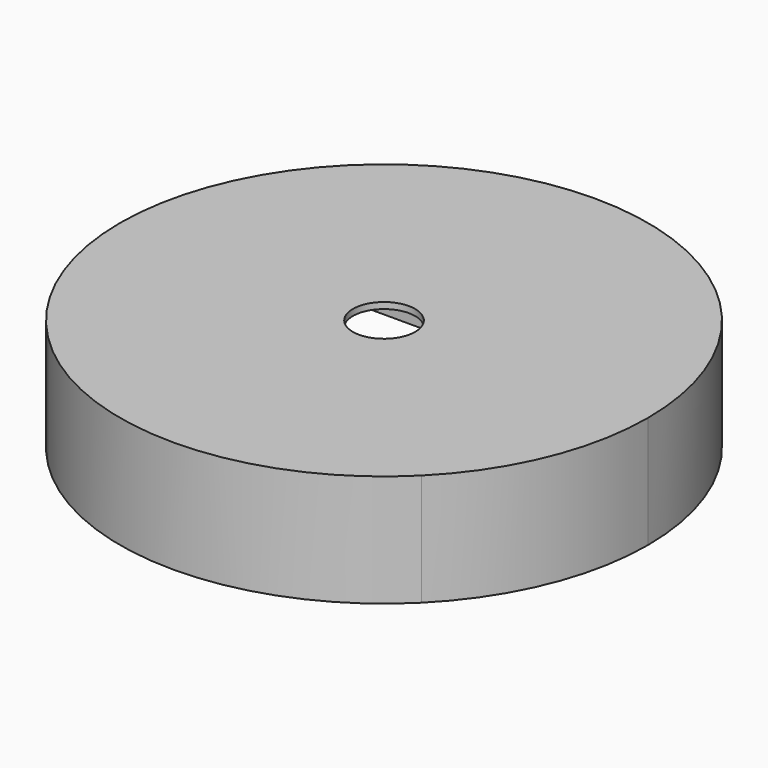
from build123d import *

# Parameters (mm, degrees)
F0_W     = 60
F0_H     = 60
F0_W_2   = 56.5
F0_H_2   = 56.5
F1_DEPTH = 17
F2_DEPTH = 1
F3_DEPTH = 17
F4_R     = 5
F5_DEPTH = 25
F6_R     = 3


with BuildPart() as f1:
    # F0 (on Top) → F1 (new body)
    with BuildSketch(Plane.XY):
        with Locations((-28.25, -28.25)):
            Rectangle(F0_W, F0_H)
        with Locations((-28.25, -28.25)):
            Rectangle(F0_W_2, F0_H_2, mode=Mode.SUBTRACT)
    extrude(amount=-F1_DEPTH)

    # F0 (on Top) → F2 (join)
    with BuildSketch(Plane.XY):
        with Locations((-28.25, -28.25)):
            Rectangle(F0_W, F0_H)
        with Locations((-28.25, -28.25)):
            Rectangle(F0_W_2, F0_H_2, mode=Mode.SUBTRACT)
        with BuildLine():
            ThreePointArc((1.75, 1.75), (-28.25, 14.176407), (-58.25, 1.75))
            Line((-58.25, 1.75), (1.75, 1.75))
        make_face()
        with BuildLine():
            Line((1.75, 1.75), (1.75, -58.25))
            ThreePointArc((1.75, -58.25), (10.946889, -44.485883), (14.176407, -28.25))
            ThreePointArc((14.176407, -28.25), (10.946889, -12.014117), (1.75, 1.75))
        make_face()
        with BuildLine():
            Line((1.75, -58.25), (-58.25, -58.25))
            ThreePointArc((-58.25, -58.25), (-28.25, -70.676407), (1.75, -58.25))
        make_face()
        with BuildLine():
            ThreePointArc((-58.25, 1.75), (-70.676407, -28.25), (-58.25, -58.25))
            Line((-58.25, -58.25), (-58.25, 1.75))
        make_face()
        with Locations((-28.25, -28.25)):
            Rectangle(F0_W_2, F0_H_2)
    extrude(amount=F2_DEPTH)

    # F0 (on Top) → F3 (join)
    with BuildSketch(Plane.XY):
        with BuildLine():
            ThreePointArc((1.75, 1.75), (-28.25, 14.176407), (-58.25, 1.75))
            Line((-58.25, 1.75), (1.75, 1.75))
        make_face()
        with BuildLine():
            ThreePointArc((-58.25, 1.75), (-70.676407, -28.25), (-58.25, -58.25))
            Line((-58.25, -58.25), (-58.25, 1.75))
        make_face()
        with BuildLine():
            Line((1.75, 1.75), (1.75, -58.25))
            ThreePointArc((1.75, -58.25), (10.946889, -44.485883), (14.176407, -28.25))
            ThreePointArc((14.176407, -28.25), (10.946889, -12.014117), (1.75, 1.75))
        make_face()
        with BuildLine():
            Line((1.75, -58.25), (-58.25, -58.25))
            ThreePointArc((-58.25, -58.25), (-28.25, -70.676407), (1.75, -58.25))
        make_face()
    extrude(amount=-F3_DEPTH)

    # F4 (on face) → F5 (cut)
    with BuildSketch(Plane.XY.offset(1)):
        with Locations((-28.25, -28.25)):
            Circle(F4_R)
    extrude(amount=-F5_DEPTH, mode=Mode.SUBTRACT)

    # F6
    f6_edges = [f1.edges().sort_by_distance(p)[0] for p in [
        (0, 0, -8.5),
        (-56.5, 0, -8.5),
        (-56.5, -56.5, -8.5),
        (0, -56.5, -8.5),
    ]]
    fillet(f6_edges, radius=F6_R)


solid = f1.part
